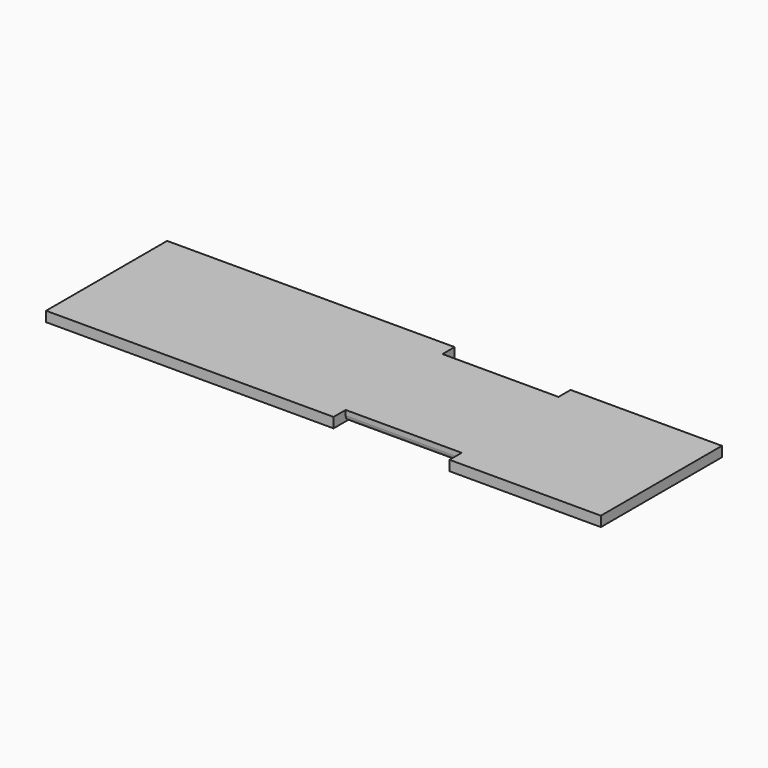
from build123d import *

# Parameters (mm, degrees)
F0_W     = 110
F0_H     = 30
F1_DEPTH = 2
F2_W     = 23
F2_H     = 3
F3_DEPTH = 25
F4_R     = 1


with BuildPart() as f1:
    # F0 (on Top) → F1 (new body)
    with BuildSketch(Plane.XY):
        Rectangle(F0_W, F0_H)
    extrude(amount=F1_DEPTH)

    # F2 (on face) → F3 (cut)
    with BuildSketch(Plane.XY.offset(2)):
        with Locations((13.5, 13.5)):
            Rectangle(F2_W, F2_H)
        with Locations((13.5, -13.5)):
            Rectangle(F2_W, F2_H)
    extrude(amount=-F3_DEPTH, mode=Mode.SUBTRACT)

    # F4
    f4_edges = [f1.edges().sort_by_distance(p)[0] for p in [
        (13.5, -12, 0),
        (13.5, 12, 0),
    ]]
    fillet(f4_edges, radius=F4_R)


solid = f1.part
